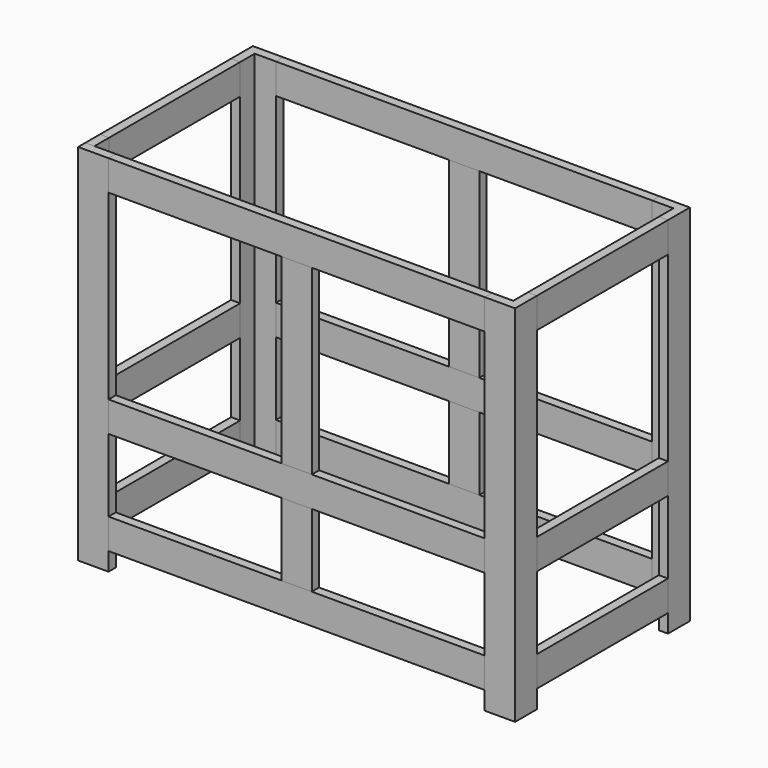
from build123d import *

# Parameters (mm, degrees)
F0_W      = 63.5
F0_H      = 19.05
F1_DEPTH  = 762
F2_W      = 19.05
F2_H      = 38.1
F3_DEPTH  = 762
F4_W      = 63.5
F4_H      = 19.05
F10_DEPTH = 762
F5_W      = 19.05
F5_H      = 38.1
F11_DEPTH = 762
F6_W      = 63.5
F6_H      = 19.05
F12_DEPTH = 762
F7_W      = 19.05
F7_H      = 38.1
F13_DEPTH = 762
F8_W      = 63.5
F8_H      = 19.05
F14_DEPTH = 762
F9_W      = 19.05
F9_H      = 38.1
F15_DEPTH = 762
F16_W     = 19.05
F16_H     = 63.5
F17_DEPTH = 787.4
F18_W     = 19.05
F18_H     = 63.5
F19_DEPTH = 787.4
F20_W     = 19.05
F20_H     = 63.5
F21_DEPTH = 342.9
F22_W     = 19.05
F22_H     = 63.5
F23_DEPTH = 342.9
F24_W     = 63.5
F24_H     = 19.05
F25_DEPTH = 381
F26_W     = 63.5
F26_H     = 19.05
F27_DEPTH = 381
F28_W     = 63.5
F28_H     = 19.05
F29_DEPTH = 152.4
F30_W     = 63.5
F30_H     = 19.05
F31_DEPTH = 152.4


with BuildPart() as f1:
    # F0 (on Top) → F1 (new body)
    with BuildSketch(Plane.XY):
        with Locations((31.75, -9.525)):
            Rectangle(F0_W, F0_H)
    extrude(amount=F1_DEPTH)

    # F2 (on Top) → F3 (join)
    with BuildSketch(Plane.XY):
        with Locations((9.525, -38.1)):
            Rectangle(F2_W, F2_H)
    extrude(amount=F3_DEPTH)


with BuildPart() as f10:
    # F4 (on Top) → F10 (new body)
    with BuildSketch(Plane.XY):
        with Locations((31.75, -447.675)):
            Rectangle(F4_W, F4_H)
    extrude(amount=F10_DEPTH)


with BuildPart() as f11:
    # F5 (on Top) → F11 (new body)
    with BuildSketch(Plane.XY):
        with Locations((9.525, -419.1)):
            Rectangle(F5_W, F5_H)
    extrude(amount=F11_DEPTH)


with BuildPart() as f12:
    # F6 (on Top) → F12 (new body)
    with BuildSketch(Plane.XY):
        with Locations((882.65, -9.525)):
            Rectangle(F6_W, F6_H)
    extrude(amount=F12_DEPTH)

    # F7 (on Top) → F13 (join)
    with BuildSketch(Plane.XY):
        with Locations((904.875, -38.1)):
            Rectangle(F7_W, F7_H)
    extrude(amount=F13_DEPTH)


with BuildPart() as f14:
    # F8 (on Top) → F14 (new body)
    with BuildSketch(Plane.XY):
        with Locations((882.65, -447.675)):
            Rectangle(F8_W, F8_H)
    extrude(amount=F14_DEPTH)

    # F9 (on Top) → F15 (join)
    with BuildSketch(Plane.XY):
        with Locations((904.875, -419.1)):
            Rectangle(F9_W, F9_H)
    extrude(amount=F15_DEPTH)


with BuildPart() as f17:
    # F16 (on face) → F17 (new body)
    with BuildSketch(Plane.YZ.offset(63.5)):
        with Locations((-447.675, 730.25)):
            Rectangle(F16_W, F16_H)
        with Locations((-447.675, 285.75)):
            Rectangle(F16_W, F16_H)
        with Locations((-447.675, 69.85)):
            Rectangle(F16_W, F16_H)
    extrude(amount=F17_DEPTH)


with BuildPart() as f19:
    # F18 (on face) → F19 (new body)
    with BuildSketch(Plane.YZ.offset(63.5)):
        with Locations((-9.525, 730.25)):
            Rectangle(F18_W, F18_H)
        with Locations((-9.525, 285.75)):
            Rectangle(F18_W, F18_H)
        with Locations((-9.525, 69.85)):
            Rectangle(F18_W, F18_H)
    extrude(amount=F19_DEPTH)


with BuildPart() as f21:
    # F20 (on face) → F21 (new body)
    with BuildSketch(Plane.XZ.offset(57.15)):
        with Locations((904.875, 730.25)):
            Rectangle(F20_W, F20_H)
        with Locations((904.875, 285.75)):
            Rectangle(F20_W, F20_H)
        with Locations((904.875, 69.85)):
            Rectangle(F20_W, F20_H)
    extrude(amount=F21_DEPTH)


with BuildPart() as f23:
    # F22 (on face) → F23 (new body)
    with BuildSketch(Plane.XZ.offset(57.15)):
        with Locations((9.525, 730.25)):
            Rectangle(F22_W, F22_H)
        with Locations((9.525, 285.75)):
            Rectangle(F22_W, F22_H)
        with Locations((9.525, 69.85)):
            Rectangle(F22_W, F22_H)
    extrude(amount=F23_DEPTH)


with BuildPart() as f25:
    # F24 (on face) → F25 (new body)
    with BuildSketch(Plane(origin=(0, 0, 698.5), x_dir=(1, 0, 0), z_dir=(0, 0, -1))):
        with Locations((457.2, 447.675)):
            Rectangle(F24_W, F24_H)
    extrude(amount=F25_DEPTH)


with BuildPart() as f27:
    # F26 (on face) → F27 (new body)
    with BuildSketch(Plane(origin=(0, 0, 698.5), x_dir=(1, 0, 0), z_dir=(0, 0, -1))):
        with Locations((457.2, 9.525)):
            Rectangle(F26_W, F26_H)
    extrude(amount=F27_DEPTH)


with BuildPart() as f29:
    # F28 (on face) → F29 (new body)
    with BuildSketch(Plane(origin=(0, 0, 254), x_dir=(1, 0, 0), z_dir=(0, 0, -1))):
        with Locations((457.2, 447.675)):
            Rectangle(F28_W, F28_H)
    extrude(amount=F29_DEPTH)


with BuildPart() as f31:
    # F30 (on face) → F31 (new body)
    with BuildSketch(Plane(origin=(0, 0, 254), x_dir=(1, 0, 0), z_dir=(0, 0, -1))):
        with Locations((457.2, 9.525)):
            Rectangle(F30_W, F30_H)
    extrude(amount=F31_DEPTH)


solid = Compound([f1.part, f10.part, f11.part, f12.part, f14.part, f17.part, f19.part, f21.part, f23.part, f25.part, f27.part, f29.part, f31.part])
